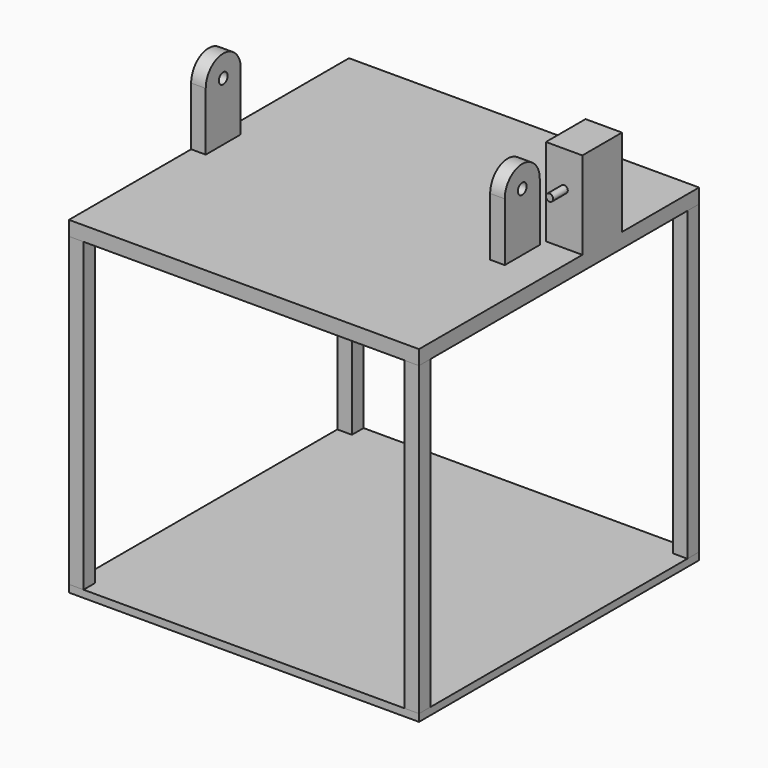
from build123d import *

# Parameters (mm, degrees)
F0_W          = 25.4
F0_H          = 25.4
F1_DEPTH      = 419.1
F1_DEPTH_BACK = 127
F3_START      = 419.1
F2_W          = 609.6
F2_H          = 609.6
F3_DEPTH      = 25.4
F5_START      = -279.4
F4_R          = 9.525
F5_DEPTH      = 25.4
F6_START      = 215.9
F6_DEPTH      = 25.4
F7_W          = 63.5
F7_H          = 86.2903104544
F8_DEPTH      = 152.4
F9_R          = 6.35
F10_DEPTH     = 31.75
F12_START     = -114.300254
F11_W         = 609.6
F11_H         = 609.6
F12_DEPTH     = 12.7


with BuildPart() as f1:
    # F0 (on Top) → F1 (new body, two sides)
    with BuildSketch(Plane.XY) as f1_sk:
        with Locations((-292.1, 292.1)):
            Rectangle(F0_W, F0_H)
    extrude(amount=F1_DEPTH)
    extrude(f1_sk.sketch, amount=-F1_DEPTH_BACK)


with BuildPart() as f1b:
    # F0 (on Top) → F1, piece 2 (new body, two sides)
    with BuildSketch(Plane.XY) as f1_2_sk:
        with Locations((292.1, 292.1)):
            Rectangle(F0_W, F0_H)
    extrude(amount=F1_DEPTH)
    extrude(f1_2_sk.sketch, amount=-F1_DEPTH_BACK)


with BuildPart() as f1c:
    # F0 (on Top) → F1, piece 3 (new body, two sides)
    with BuildSketch(Plane.XY) as f1_3_sk:
        with Locations((292.1, -292.1)):
            Rectangle(F0_W, F0_H)
    extrude(amount=F1_DEPTH)
    extrude(f1_3_sk.sketch, amount=-F1_DEPTH_BACK)


with BuildPart() as f1d:
    # F0 (on Top) → F1, piece 4 (new body, two sides)
    with BuildSketch(Plane.XY) as f1_4_sk:
        with Locations((-292.1, -292.1)):
            Rectangle(F0_W, F0_H)
    extrude(amount=F1_DEPTH)
    extrude(f1_4_sk.sketch, amount=-F1_DEPTH_BACK)


with BuildPart() as f3:
    # F2 (on Top) → F3 (new body)
    with BuildSketch(Plane.XY.offset(F3_START)):
        Rectangle(F2_W, F2_H)
    extrude(amount=F3_DEPTH)

    # F4 (on Right) → F5 (join)
    with BuildSketch(Plane.YZ.offset(F5_START)):
        with BuildLine():
            Line((-38.7780400669, 546.1), (-38.7780400669, 444.5))
            Line((-38.7780400669, 444.5), (37.4219599331, 444.5))
            Line((37.4219599331, 444.5), (37.4219599331, 546.1))
            ThreePointArc((37.4219599331, 546.1), (-0.6780400669, 584.2), (-38.7780400669, 546.1))
        make_face()
        with Locations((-0.6780400669, 546.1)):
            Circle(F4_R, mode=Mode.SUBTRACT)
    extrude(amount=-F5_DEPTH)

    # F4 (on Right) → F6 (join)
    with BuildSketch(Plane.YZ.offset(F6_START)):
        with BuildLine():
            Line((-38.7780400669, 546.1), (-38.7780400669, 444.5))
            Line((-38.7780400669, 444.5), (37.4219599331, 444.5))
            Line((37.4219599331, 444.5), (37.4219599331, 546.1))
            ThreePointArc((37.4219599331, 546.1), (-0.6780400669, 584.2), (-38.7780400669, 546.1))
        make_face()
        with Locations((-0.6780400669, 546.1)):
            Circle(F4_R, mode=Mode.SUBTRACT)
    extrude(amount=F6_DEPTH)

    # F7 (on face) → F8 (join)
    with BuildSketch(Plane.XY.offset(444.5)):
        with Locations((273.05, 93.9451552272)):
            Rectangle(F7_W, F7_H)
    extrude(amount=F8_DEPTH)

    # F9 (on face) → F10 (join)
    with BuildSketch(Plane.XZ.offset(-50.8)):
        with Locations((273.05, 534.8006486893)):
            Circle(F9_R)
    extrude(amount=F10_DEPTH)


with BuildPart() as f12:
    # F11 (on Top) → F12 (new body)
    with BuildSketch(Plane.XY.offset(F12_START)):
        Rectangle(F11_W, F11_H)
    extrude(amount=-F12_DEPTH)


solid = Compound([f1.part, f1b.part, f1c.part, f1d.part, f3.part, f12.part])
